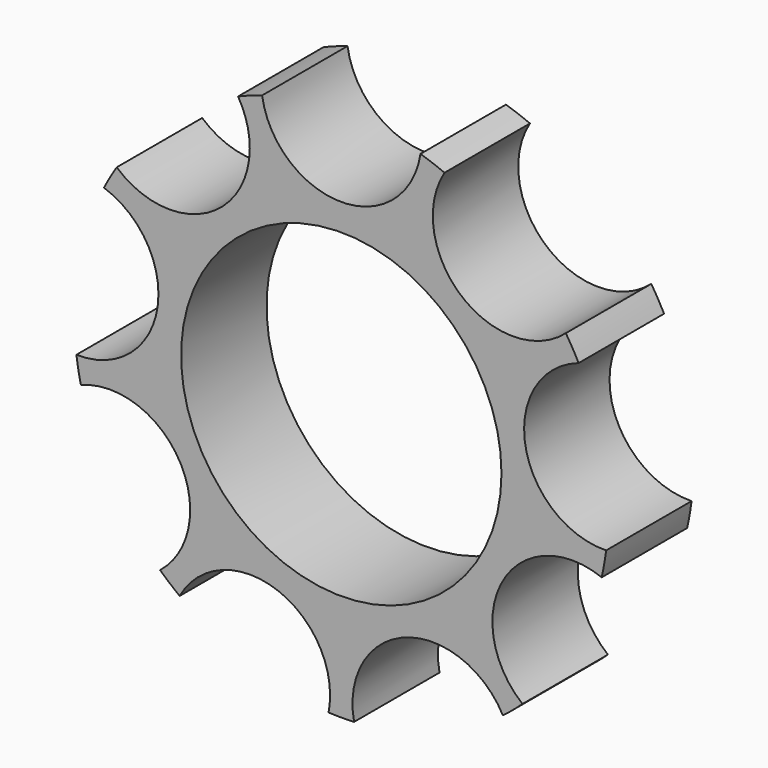
from build123d import *

# Parameters (mm, degrees)
F0_R     = 9.525
F1_DEPTH = 6.35


with BuildPart() as f1:
    # F0 (on Front) → F1 (new body)
    with BuildSketch(Plane.XZ):
        with BuildLine():
            ThreePointArc((15.747944, -2.004468), (10.943676, 1.929665), (14.112658, 7.269697))
            ThreePointArc((14.112658, 7.269697), (13.748153, 7.9375), (13.352072, 8.587072))
            ThreePointArc((13.352072, 8.587072), (7.142977, 8.512669), (6.138052, 14.640353))
            ThreePointArc((6.138052, 14.640353), (5.42957, 14.91762), (4.708617, 15.160625))
            ThreePointArc((4.708617, 15.160625), (0, 11.1125), (-4.708617, 15.160625))
            ThreePointArc((-4.708617, 15.160625), (-5.42957, 14.91762), (-6.138052, 14.640353))
            ThreePointArc((-6.138052, 14.640353), (-5.619131, 13.448613), (-5.441753, 12.160956))
            ThreePointArc((-5.441753, 12.160956), (-8.243396, 7.820858), (-13.352072, 8.587072))
            ThreePointArc((-13.352072, 8.587072), (-13.748153, 7.9375), (-14.112658, 7.269697))
            ThreePointArc((-14.112658, 7.269697), (-11.765622, 5.534871), (-10.871323, 2.756665))
            ThreePointArc((-10.871323, 2.756665), (-12.306819, -0.65104), (-15.747944, -2.004468))
            ThreePointArc((-15.747944, -2.004468), (-15.633823, -2.756665), (-15.483795, -3.502531))
            ThreePointArc((-15.483795, -3.502531), (-11.063436, -4.003838), (-8.985653, -7.9375))
            ThreePointArc((-8.985653, -7.9375), (-9.456289, -10.001793), (-10.775178, -11.658094))
            ThreePointArc((-10.775178, -11.658094), (-10.204253, -12.160956), (-9.609892, -12.635886))
            ThreePointArc((-9.609892, -12.635886), (-4.252153, -10.302959), (-0.66707, -14.91762))
            ThreePointArc((-0.66707, -14.91762), (-0.690507, -15.389517), (-0.760586, -15.856769))
            ThreePointArc((-0.760586, -15.856769), (0, -15.875), (0.760586, -15.856769))
            ThreePointArc((0.760586, -15.856769), (3.800699, -10.442334), (9.609892, -12.635886))
            ThreePointArc((9.609892, -12.635886), (10.204253, -12.160956), (10.775178, -11.658094))
            ThreePointArc((10.775178, -11.658094), (9.623707, -5.55625), (15.483795, -3.502531))
            ThreePointArc((15.483795, -3.502531), (15.633823, -2.756665), (15.747944, -2.004468))
        make_face()
        Circle(F0_R, mode=Mode.SUBTRACT)
    extrude(amount=F1_DEPTH)


solid = f1.part
